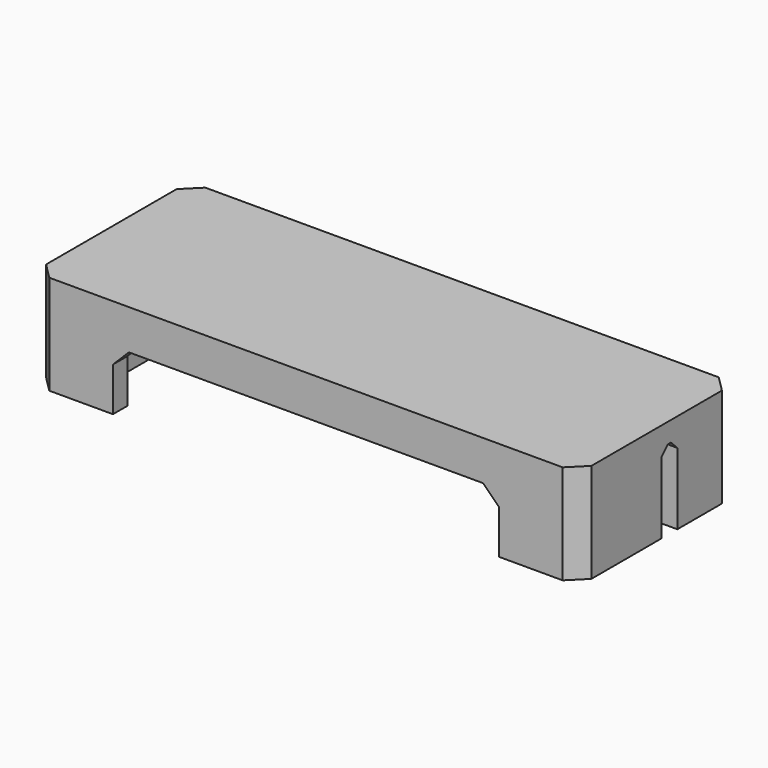
from build123d import *

# Parameters (mm, degrees)
SKETCH_W        = 137
SKETCH_H        = 49
SKETCH_R        = 2.05
SKETCH_W_2      = 115
SKETCH_H_2      = 40
PAD_DEPTH       = 25
CHAMFER_SIZE    = 4
SKETCH004_W     = 129
SKETCH004_H     = 41
PAD001_DEPTH    = 4
SKETCH003_W     = 7.55
SKETCH003_H     = 10.5
POCKET_DEPTH    = 4
POCKET001_DEPTH = 5.01
SKETCH005_W     = 22.132821
SKETCH005_H     = 5
POCKET002_DEPTH = 15
CHAMFER001_SIZE = 2


with BuildPart() as part:
    # Sketch → Pad (new body)
    with BuildSketch(Plane.XY):
        with Locations((68.5, 24.5)):
            Rectangle(SKETCH_W, SKETCH_H)
        with Locations((7.25, 11.7)):
            Circle(SKETCH_R, mode=Mode.SUBTRACT)
        with Locations((129.75, 11.7)):
            Circle(SKETCH_R, mode=Mode.SUBTRACT)
        with Locations((7.25, 37.3)):
            Circle(SKETCH_R, mode=Mode.SUBTRACT)
        with Locations((129.75, 37.3)):
            Circle(SKETCH_R, mode=Mode.SUBTRACT)
        with Locations((68.5, 24.5)):
            Rectangle(SKETCH_W_2, SKETCH_H_2, mode=Mode.SUBTRACT)
    extrude(amount=-PAD_DEPTH)

    # Chamfer
    chamfer_edges = [part.edges().sort_by_distance(p)[0] for p in [
        (137, 49, -12.5),
        (137, 0, -12.5),
        (0, 49, -12.5),
        (0, 0, -12.5),
    ]]
    chamfer(chamfer_edges, length=CHAMFER_SIZE)

    # Sketch004 → Pad001 (join)
    with BuildSketch(Plane.XY):
        with Locations((68.5, 24.5)):
            Rectangle(SKETCH004_W, SKETCH004_H)
    extrude(amount=-PAD001_DEPTH)

    # Sketch003 (on DatumPlane) → Pocket (cut)
    with BuildSketch(Plane.XY.offset(-20)):
        with Locations((7.25, 11.75)):
            Rectangle(SKETCH003_W, SKETCH003_H)
        with Locations((7.25, 37.25)):
            Rectangle(SKETCH003_W, SKETCH003_H)
        with Locations((129.75, 37.25)):
            Rectangle(SKETCH003_W, SKETCH003_H)
        with Locations((129.75, 11.75)):
            Rectangle(SKETCH003_W, SKETCH003_H)
    extrude(amount=POCKET_DEPTH, mode=Mode.SUBTRACT)

    # Sketch002 → Pocket001 (cut)
    with BuildSketch(Plane.XZ):
        Polygon((113, -10), (24, -10), (20, -14), (20, -147.795874), (117, -147.795874), (117, -14), align=None)
    extrude(amount=-POCKET001_DEPTH, mode=Mode.SUBTRACT)

    # Sketch005 (on DatumPlane) → Pocket002 (cut, symmetric)
    with BuildSketch(Plane.XY.offset(-20)):
        with Locations((131.19064, 28.5)):
            Rectangle(SKETCH005_W, SKETCH005_H)
    extrude(amount=POCKET002_DEPTH, both=True, mode=Mode.SUBTRACT)

    # Chamfer001
    chamfer001_edges = [part.edges().sort_by_distance(p)[0] for p in [
        (131.5, 26, -5),
        (131.5, 31, -5),
    ]]
    chamfer(chamfer001_edges, length=CHAMFER001_SIZE)


solid = part.part
